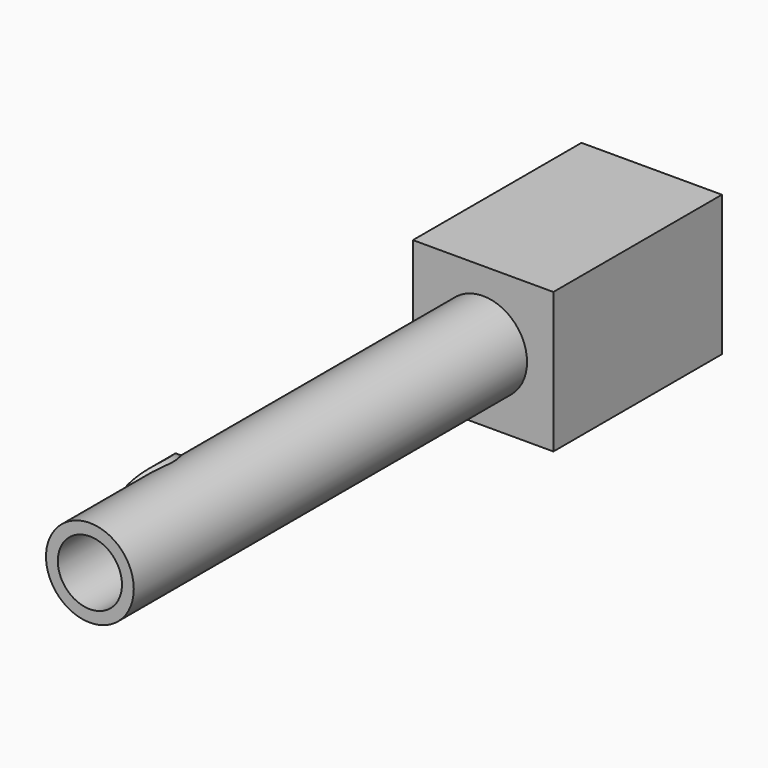
from build123d import *

# Parameters (mm, degrees)
F0_W     = 25.4
F0_H     = 25.4
F0_R     = 7.9375
F0_R_2   = 5.802411
F1_DEPTH = 38.1
F2_DEPTH = 127
F3_R     = 7.112015
F4_DEPTH = 12.7
F6_R     = 29.398476
F6_R_2   = 8.5725
F7_DEPTH = 32.766
F8_DEPTH = 152.4


with BuildPart() as f1:
    # F0 (on Front) → F1 (new body)
    with BuildSketch(Plane.XZ):
        Rectangle(F0_W, F0_H)
        Circle(F0_R, mode=Mode.SUBTRACT)
        Circle(F0_R)
        Circle(F0_R_2, mode=Mode.SUBTRACT)
    extrude(amount=F1_DEPTH)

    # F0 (on Front) → F2 (join)
    with BuildSketch(Plane.XZ):
        Circle(F0_R)
        Circle(F0_R_2, mode=Mode.SUBTRACT)
    extrude(amount=F2_DEPTH)


with BuildPart() as f4:
    # F3 (on Right) → F4 (new body)
    with BuildSketch(Plane.YZ):
        with Locations((-103.724845, 0)):
            Circle(F3_R)
        with BuildLine():
            ThreePointArc((-103.724845, 5.842015), (-99.593916, 4.130929), (-97.882829, 0))
            ThreePointArc((-97.882829, 0), (-99.593916, -4.130929), (-103.724845, -5.842015))
            ThreePointArc((-103.724845, -5.842015), (-107.855773, -4.130929), (-109.56686, 0))
            ThreePointArc((-109.56686, 0), (-107.855773, 4.130929), (-103.724845, 5.842015))
        make_face(mode=Mode.SUBTRACT)
        Polygon((-103.724845, -5.842015), (-97.882829, 0), (-103.724845, 5.842015), (-104.62287, 4.94399), (-99.678881, 0), (-101.275412, -1.596532), (-101.629339, -1.957809), (-101.999129, -0.872815), (-106.210212, 3.338268), (-107.108238, 2.440243), (-102.169097, -2.498898), (-103.729694, -4.041115), (-108.668834, 0.898026), (-109.56686, 0), align=None)
    extrude(amount=-F4_DEPTH)

    # F6 (on face) → F7 (cut)
    with BuildSketch(Plane.XZ.offset(127)):
        Circle(F6_R)
        Circle(F6_R_2, mode=Mode.SUBTRACT)
    extrude(amount=-F7_DEPTH, mode=Mode.SUBTRACT)

    # F0 (on Front) → F8 (cut)
    with BuildSketch(Plane.XZ):
        Circle(F0_R_2)
    extrude(amount=F8_DEPTH, mode=Mode.SUBTRACT)


solid = Compound([f1.part, f4.part])
